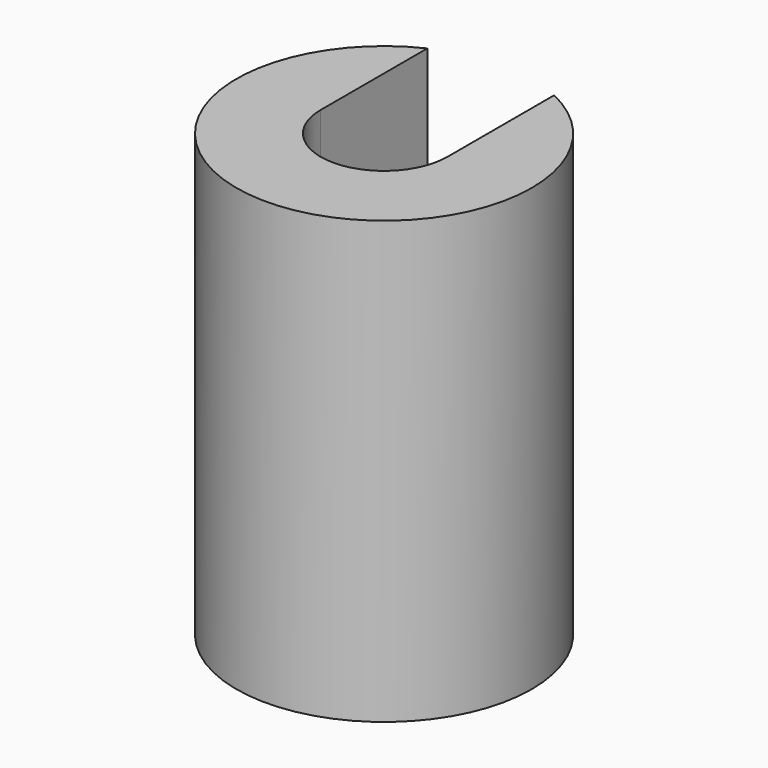
from build123d import *

# Parameters (mm, degrees)
F0_R     = 8.5
F1_DEPTH = 25.4
F3_D     = 7.3
F5_DEPTH = 18.542
F6_R     = 7.2
F6_R_2   = 3.65
F7_DEPTH = 5.9


with BuildPart() as f1:
    # F0 (on Top) → F1 (new body)
    with BuildSketch(Plane.XY):
        Circle(F0_R)
    extrude(amount=F1_DEPTH)

    # F3 (through all)
    with Locations(Plane.XY.offset(25.4)):
        with Locations((0, 0)):
            Hole(F3_D / 2)

    # F4 (on face) → F5 (cut)
    with BuildSketch(Plane.XY.offset(25.4)):
        with BuildLine():
            Line((-3.65, 7.6764249492), (-3.65, 0))
            ThreePointArc((-3.65, 0), (0, 3.65), (3.65, 0))
            Line((3.65, 0), (3.65, 7.6764249492))
            ThreePointArc((3.65, 7.6764249492), (0, 8.5), (-3.65, 7.6764249492))
        make_face()
    extrude(amount=-F5_DEPTH, mode=Mode.SUBTRACT)

    # F6 (on face) → F7 (cut)
    with BuildSketch(Plane(origin=(0, 0, 0), x_dir=(1, 0, 0), z_dir=(0, 0, -1))):
        Circle(F6_R)
        Circle(F6_R_2, mode=Mode.SUBTRACT)
    extrude(amount=-F7_DEPTH, mode=Mode.SUBTRACT)


solid = f1.part
